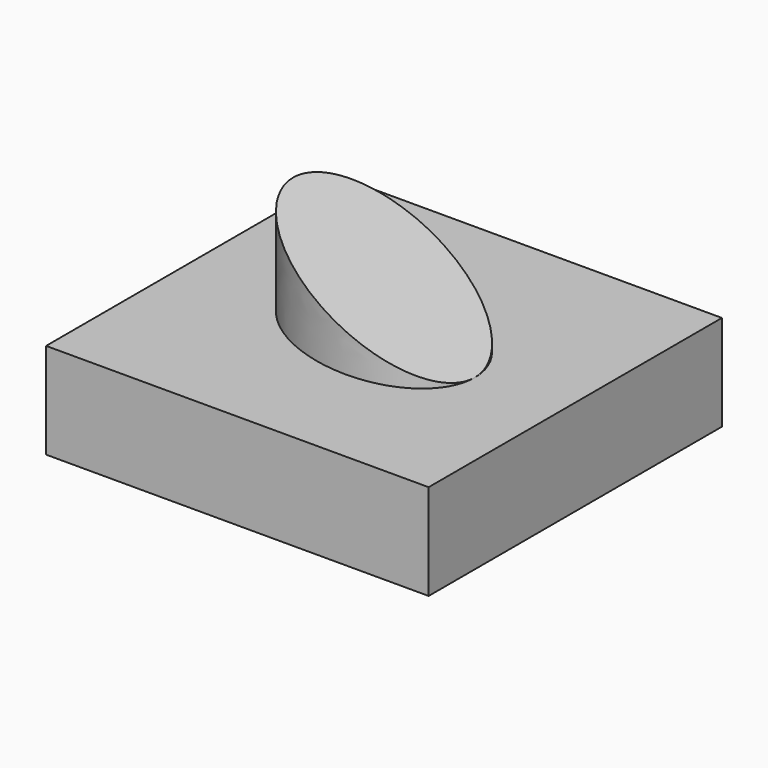
from build123d import *

# Parameters (mm, degrees)
F0_W     = 101.4645919204
F0_H     = 97.2314924002
F1_DEPTH = 25.4
F3_DEPTH = 50.8
F5_DEPTH = 97.2324925002


with BuildPart() as f1:
    # F0 (on Top) → F1 (new body)
    with BuildSketch(Plane.XY):
        Rectangle(F0_W, F0_H)
    extrude(amount=F1_DEPTH)

    # F2 (on Top) → F3 (join)
    with BuildSketch(Plane.XY):
        with BuildLine():
            add(Edge.make_bspline(
                [(26.9378982484, -7.8889131546), (36.1832899021, 23.6808880022), (-8.8462532974, 19.7293571557), (-53.8757964969, 15.7778263092), (-18.0916449511, -11.8404440011), (17.6925065947, -39.4587143115), (26.9378982484, -7.8889131546)],
                knots=[0, 0, 0, 2.0943951024, 2.0943951024, 4.1887902048, 4.1887902048, 6.2831853072, 6.2831853072, 6.2831853072], degree=2, weights=[1, 0.5, 1, 0.5, 1, 0.5, 1]))
        make_face()
    extrude(amount=F3_DEPTH)

    # F4 (on face) → F5 (cut, through all)
    with BuildSketch(Plane.XZ.offset(48.6157462001)):
        Polygon((27.4616602615, 50.8), (-27.4616602615, 50.8), (27.4616602615, 25.4), align=None)
    extrude(amount=-F5_DEPTH, mode=Mode.SUBTRACT)


solid = f1.part
